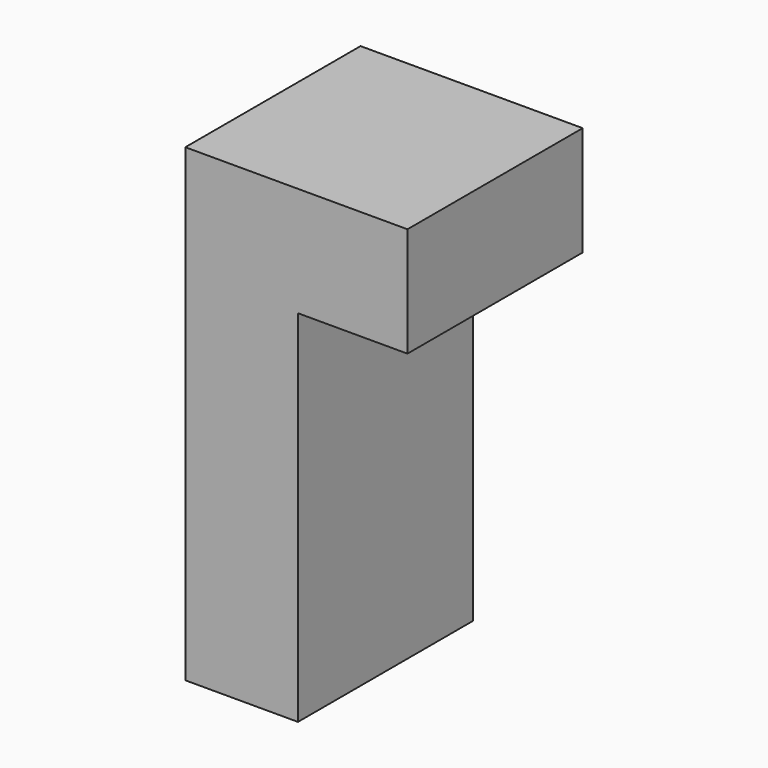
from build123d import *

# Parameters (mm, degrees)
PAD_DEPTH    = 14
SKETCH001_W  = 4.2
SKETCH001_H  = 10.937521
POCKET_DEPTH = 28.5


with BuildPart() as part:
    # Sketch → Pad (new body)
    with BuildSketch(Plane.XZ):
        Polygon((0, 30), (14.2, 30), (14.2, 23), (7.2, 23), (7.2, 0), (5.7, 0), (1.5, 0), (0, 0), align=None)
    extrude(amount=PAD_DEPTH)

    # Sketch001 → Pocket (cut)
    with BuildSketch(Plane(origin=(0, 0, 0), x_dir=(1, 0, 0), z_dir=(0, 0, -1))):
        with Locations((3.6, 7.031239)):
            Rectangle(SKETCH001_W, SKETCH001_H)
    extrude(amount=-POCKET_DEPTH, mode=Mode.SUBTRACT)


solid = part.part
